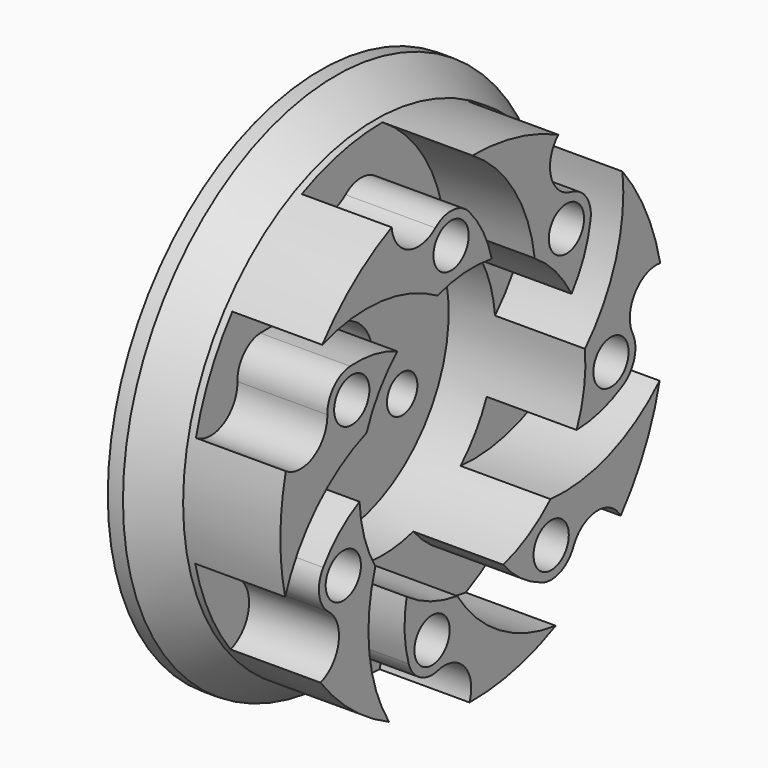
from build123d import *

# Parameters (mm, degrees)
F2_R      = 1.8415
F3_DEPTH  = 7.5184
F4_R      = 1.8415
F5_DEPTH  = 17.4508
F7_R      = 4.6101
F8_DEPTH  = 3.9116
F9_R      = 3.8608
F9_R_2    = 1.5875
F10_DEPTH = 17.4508
F12_W     = 38.1
F12_H     = 76.2
F13_DEPTH = 38.1


with BuildPart() as f1:
    # F0 (on Top) → F1 (revolve)
    with BuildSketch(Plane.XY):
        Polygon((17.4498, -12.7), (17.4498, 0), (11.43, 0), (11.43, -11.811), (0, -11.811), (0, -20.066), (8.128, -20.066), (11.43, -22.225), (12.7, -22.225), align=None)
    revolve(axis=Axis((20.313933, 0, 0), (-1, 0, 0)))

    # F2 (on Right) → F3 (cut)
    with BuildSketch(Plane.YZ):
        with BuildLine():
            ThreePointArc((2.024468, 11.636204), (4.042106, 10.179013), (6.509765, 9.855084))
            ThreePointArc((6.509765, 9.855084), (4.390168, 15.68432), (0, 20.066))
            ThreePointArc((0, 20.066), (-4.734143, 21.484435), (-8.433678, 18.20762))
            ThreePointArc((-8.433678, 18.20762), (-6.723784, 15.872719), (-3.862274, 16.305458))
            ThreePointArc((-3.862274, 16.305458), (-2.055952, 16.890868), (-0.345138, 16.067084))
            ThreePointArc((-0.345138, 16.067084), (1.117901, 14.000443), (2.024468, 11.636204))
        make_face()
        with Locations((-2.228566, 14.344011)):
            Circle(F2_R)
        with BuildLine():
            ThreePointArc((-7.835316, 8.837847), (-5.438061, 9.506757), (-3.646243, 11.234083))
            ThreePointArc((-3.646243, 11.234083), (-9.525271, 13.211385), (-15.688231, 12.510946))
            ThreePointArc((-15.688231, 12.510946), (-19.748898, 9.694024), (-19.493603, 4.758551))
            ThreePointArc((-19.493603, 4.758551), (-16.602002, 4.639613), (-15.156209, 7.146639))
            ThreePointArc((-15.156209, 7.146639), (-14.487678, 8.923876), (-12.776942, 9.747823))
            ThreePointArc((-12.776942, 9.747823), (-10.248987, 9.603144), (-7.835316, 8.837847))
        make_face()
        with Locations((-12.604087, 7.200982)):
            Circle(F2_R)
        with BuildLine():
            ThreePointArc((-11.794947, -0.615589), (-10.823257, 1.675719), (-11.056556, 4.153589))
            ThreePointArc((-11.056556, 4.153589), (-16.267986, 0.790007), (-19.562903, -4.465105))
            ThreePointArc((-19.562903, -4.465105), (-19.892329, -9.396185), (-15.874447, -12.273805))
            ThreePointArc((-15.874447, -12.273805), (-13.978575, -10.087217), (-15.037209, -7.393745))
            ThreePointArc((-15.037209, -7.393745), (-16.009887, -5.762977), (-15.587448, -3.911747))
            ThreePointArc((-15.587448, -3.911747), (-13.898179, -2.025519), (-11.794947, -0.615589))
        make_face()
        with Locations((-13.488474, -5.364534)):
            Circle(F2_R)
        with BuildLine():
            ThreePointArc((-6.872742, -9.605474), (-8.05832, -7.41717), (-10.141056, -6.054643))
            ThreePointArc((-10.141056, -6.054643), (-10.760576, -12.226262), (-8.706311, -18.078841))
            ThreePointArc((-8.706311, -18.078841), (-5.056431, -21.410875), (-0.301509, -20.063735))
            ThreePointArc((-0.301509, -20.063735), (-0.828995, -17.218167), (-3.594884, -16.366488))
            ThreePointArc((-3.594884, -16.366488), (-5.476324, -16.110191), (-6.660287, -14.625692))
            ThreePointArc((-6.660287, -14.625692), (-7.081759, -12.128924), (-6.872742, -9.605474))
        make_face()
        with Locations((-4.215765, -13.890446)):
            Circle(F2_R)
        with BuildLine():
            ThreePointArc((3.224777, -11.362242), (0.774697, -10.924778), (-1.589135, -11.703605))
            ThreePointArc((-1.589135, -11.703605), (2.849767, -16.035907), (8.706311, -18.078841))
            ThreePointArc((8.706311, -18.078841), (13.587063, -17.302739), (15.498471, -12.745263))
            ThreePointArc((15.498471, -12.745263), (12.944835, -11.383486), (10.554462, -13.014932))
            ThreePointArc((10.554462, -13.014932), (9.181022, -14.326102), (7.282205, -14.326192))
            ThreePointArc((7.282205, -14.326192), (5.06737, -13.099002), (3.224777, -11.362242))
        make_face()
        with Locations((8.231501, -11.956569)):
            Circle(F2_R)
        with BuildLine():
            ThreePointArc((10.893974, -4.563009), (9.024351, -6.205806), (8.159438, -8.539514))
            ThreePointArc((8.159438, -8.539514), (14.314178, -7.770187), (19.562903, -4.465105))
            ThreePointArc((19.562903, -4.465105), (21.999221, -0.165288), (19.627787, 4.170651))
            ThreePointArc((19.627787, 4.170651), (16.97094, 3.023192), (16.756083, 0.137133))
            ThreePointArc((16.756083, 0.137133), (16.924871, -1.754167), (15.741049, -3.238778))
            ThreePointArc((15.741049, -3.238778), (13.400666, -4.205265), (10.893974, -4.563009))
        make_face()
        with Locations((14.480279, -1.019152)):
            Circle(F2_R)
        with BuildLine():
            ThreePointArc((10.359786, 5.672262), (10.478485, 3.186265), (11.763787, 1.055005))
            ThreePointArc((11.763787, 1.055005), (14.99972, 6.346643), (15.688231, 12.510946))
            ThreePointArc((15.688231, 12.510946), (13.845518, 17.096628), (8.976979, 17.94598))
            ThreePointArc((8.976979, 17.94598), (8.217581, 15.153345), (10.340031, 13.185934))
            ThreePointArc((10.340031, 13.185934), (11.923947, 12.138692), (12.346562, 10.287503))
            ThreePointArc((12.346562, 10.287503), (11.642987, 7.855123), (10.359786, 5.672262))
        make_face()
        with Locations((9.825112, 10.685707)):
            Circle(F2_R)
    extrude(amount=F3_DEPTH, mode=Mode.SUBTRACT)

    # F4 (on Right) → F5 (cut, through all)
    with BuildSketch(Plane.YZ):
        with Locations((9.825112, 10.685707)):
            Circle(F4_R)
        with Locations((-2.228566, 14.344011)):
            Circle(F4_R)
        with Locations((-12.604087, 7.200982)):
            Circle(F4_R)
        with Locations((-13.488474, -5.364534)):
            Circle(F4_R)
        with Locations((-4.215765, -13.890446)):
            Circle(F4_R)
        with Locations((8.231501, -11.956569)):
            Circle(F4_R)
        with Locations((14.480279, -1.019152)):
            Circle(F4_R)
    extrude(amount=F5_DEPTH, mode=Mode.SUBTRACT)

    # F7 (on offset) → F8 (cut)
    with BuildSketch(Plane.YZ.offset(17.4498)):
        with Locations((14.480279, -1.019152)):
            Circle(F7_R)
        with Locations((9.825112, 10.685707)):
            Circle(F7_R)
        with Locations((-2.228566, 14.344011)):
            Circle(F7_R)
        with Locations((-12.604087, 7.200982)):
            Circle(F7_R)
        with Locations((-13.488474, -5.364534)):
            Circle(F7_R)
        with Locations((-4.215765, -13.890446)):
            Circle(F7_R)
        with Locations((8.231501, -11.956569)):
            Circle(F7_R)
    extrude(amount=-F8_DEPTH, mode=Mode.SUBTRACT)

    # F9 (on offset) → F10 (cut, through all)
    with BuildSketch(Plane.YZ.offset(17.4498)):
        Circle(F9_R)
        with Locations((6.951066, -4.0132)):
            Circle(F9_R_2)
        with Locations((4.0132, 6.951066)):
            Circle(F9_R_2)
        with Locations((-6.951066, 4.0132)):
            Circle(F9_R_2)
        with Locations((-4.0132, -6.951066)):
            Circle(F9_R_2)
    extrude(amount=-F10_DEPTH, mode=Mode.SUBTRACT)

    # F11: F1 across plane


with BuildPart() as f1_1:
    add(f1.part)
    add(f1.part.mirror(Plane.YZ))

    # F12 (on Front) → F13 (cut, symmetric)
    with BuildSketch(Plane.XZ):
        with Locations((19.05, 0)):
            Rectangle(F12_W, F12_H)
    extrude(amount=F13_DEPTH, both=True, mode=Mode.SUBTRACT)


solid = f1_1.part
